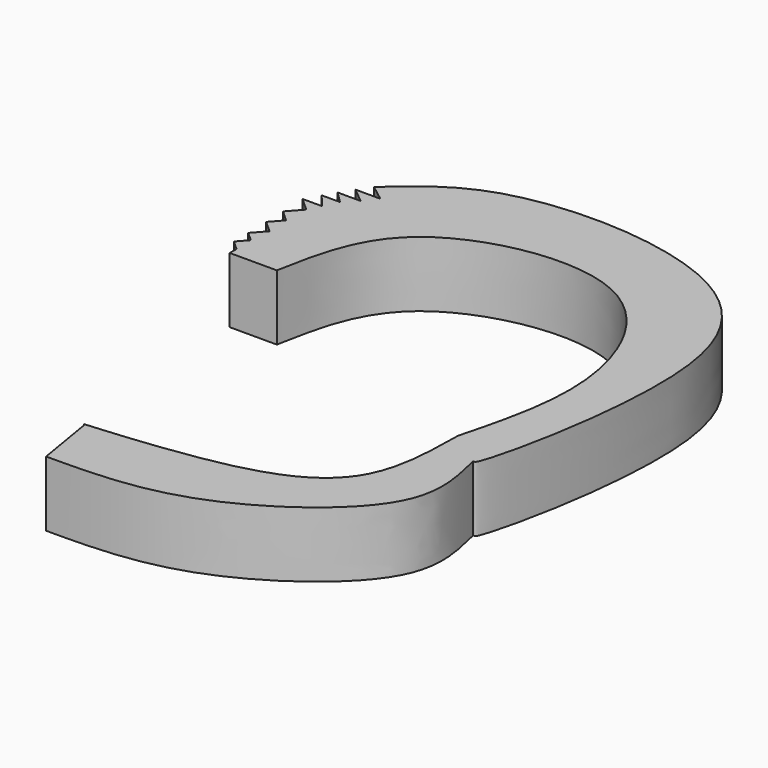
from build123d import *

# Parameters (mm, degrees)
F1_DEPTH = 12.7


with BuildPart() as f1:
    # F0 (on Top) → F1 (new body)
    with BuildSketch(Plane.XY):
        with BuildLine():
            Line((-46.9046421349, -12.7903968096), (-37.7491377294, -12.7903968096))
            add(Edge.make_bspline(
                [(-37.7491377294, -12.7903968096), (-36.2264822799, -4.6446508342), (-32.9042240404, 13.141268269), (9.1532582942, 21.4285213395), (24.8081231682, -10.4235855299), (20.0853489239, -28.8206254138), (17.6637864196, -38.0241783793)],
                knots=[0, 0, 0, 0, 0.2285713777, 0.4998026702, 0.7515667427, 1, 1, 1, 1], degree=3))
            add(Edge.make_bspline(
                [(17.6637864196, -38.0241783793), (17.5615067619, -44.6980004348), (17.3512528681, -58.4172199431), (0.3417346721, -68.7158650754), (-30.3003953484, -70.554400191), (-28.9661856328, -70.512052471), (-28.8585629314, -70.5086365342)],
                knots=[0, 0, 0, 0, 0.2978911607, 0.6123678739, 0.9687320396, 1, 1, 1, 1], degree=3))
            Line((-28.8585629314, -70.5086365342), (-26.8755909055, -82.4282169342))
            add(Edge.make_bspline(
                [(24.693287909, -43.1614480913), (25.9701473511, -48.5152089656), (29.0249286494, -61.3236419507), (-0.0494477576, -82.3169472038), (-18.1552935893, -82.3920468025), (-26.8755909055, -82.4282169342)],
                knots=[0, 0, 0, 0, 0.2712864531, 0.6490305481, 1, 1, 1, 1], degree=3))
            add(Edge.make_bspline(
                [(-43.3545485139, 17.8171340376), (-39.0329796941, 21.7007262749), (-28.6535418396, 31.0115685846), (9.5968050613, 31.6028553823), (38.4027291185, 10.2832399558), (26.087814584, -43.2681497606), (24.8988357903, -43.1615922574), (24.7570963099, -43.1522225083), (24.693287909, -43.1614480913)],
                knots=[0, 0, 0, 0, 0.1803184658, 0.4292970093, 0.6699278742, 0.9576749675, 0.9818895825, 1, 1, 1, 1], degree=3))
            Line((-43.3545485139, 17.8171340376), (-40.1781499386, 15.3875201941))
            Line((-40.1781499386, 15.3875201941), (-45.0361706316, 15.3875201941))
            Line((-45.0361706316, 15.3875201941), (-42.0466177166, 12.9580767825))
            Line((-42.0466177166, 12.9580767825), (-46.5309470892, 12.9580767825))
            Line((-46.5309470892, 12.9580767825), (-44.2887842655, 10.7155758888))
            Line((-44.2887842655, 10.7155758888), (-47.8388778865, 10.7155758888))
            Line((-47.8388778865, 10.7155758888), (-45.5967113376, 7.9691391306))
            Line((-45.5967113376, 7.9691391306), (-49.3754526456, 7.9691391306))
            Line((-49.3754526456, 7.9691391306), (-46.7241287522, 5.5859889915))
            Line((-46.7241287522, 5.5859889915), (-49.1292118286, 2.910264067))
            Line((-49.1292118286, 2.910264067), (-46.9109762016, 0.916396567))
            Line((-46.9109762016, 0.916396567), (-48.9631760083, -1.366735449))
            Line((-48.9631760083, -1.366735449), (-46.6416746611, -3.4534236399))
            Line((-46.6416746611, -3.4534236399), (-48.8332038311, -5.891563628))
            Line((-48.8332038311, -5.891563628), (-47.0272443784, -7.5148554979))
            Line((-47.0272443784, -7.5148554979), (-48.7731136382, -9.4571858644))
            Line((-48.7731136382, -9.4571858644), (-46.9046421349, -11.1366668716))
            Line((-46.9046421349, -11.1366668716), (-46.9046421349, -12.7903968096))
        make_face()
    extrude(amount=F1_DEPTH)


solid = f1.part
